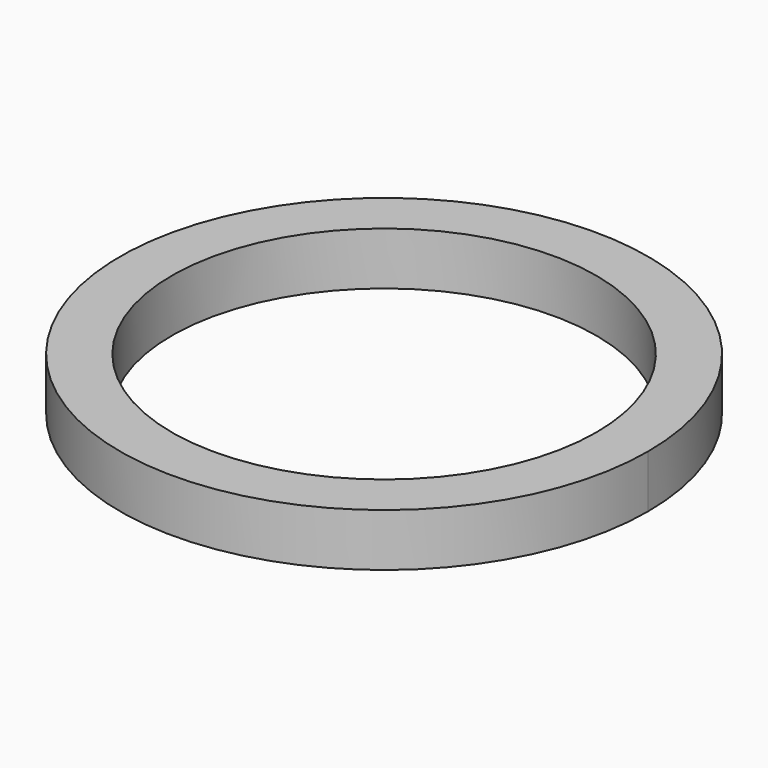
from build123d import *

# Parameters (mm, degrees)
F2_DEPTH = 5


with BuildPart() as f2:
    # F1 (on face) → F2 (new body)
    with BuildSketch(Plane.XY):
        with BuildLine():
            ThreePointArc((25, 0), (22.589753477, 10.709950413), (15.8237569722, 19.3548111664))
            ThreePointArc((15.8237569722, 19.3548111664), (-22.589753477, -10.709950413), (25, 0))
        make_face()
        with BuildLine():
            ThreePointArc((20.1021274538, 0), (-19.3374147026, -5.4918048753), (17.101457912, 10.5657780335))
            ThreePointArc((17.101457912, 10.5657780335), (19.3374147026, 5.4918048753), (20.1021274538, 0))
        make_face(mode=Mode.SUBTRACT)
    extrude(amount=F2_DEPTH)


solid = f2.part
